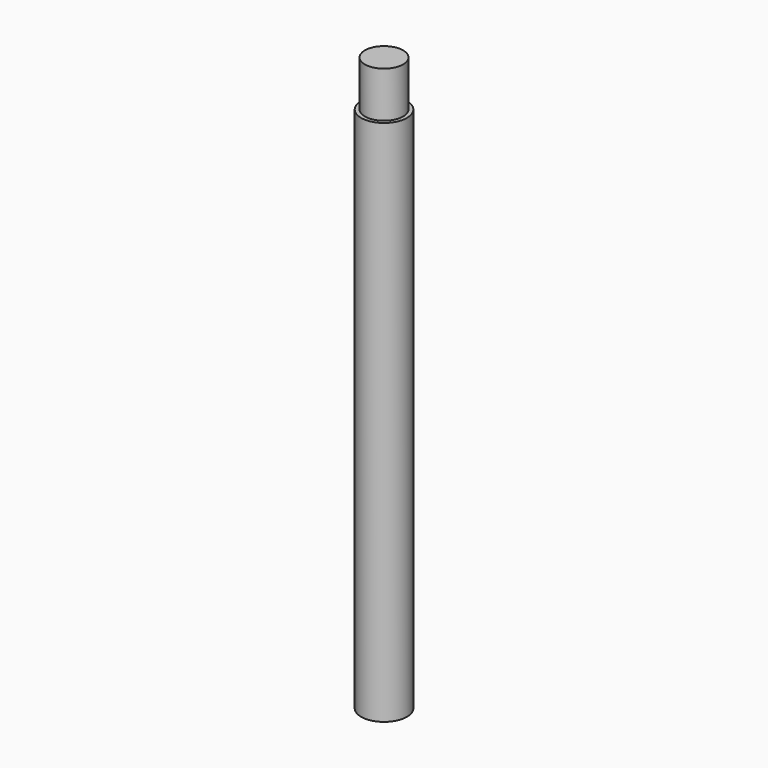
from build123d import *

# Parameters (mm, degrees)
F0_R     = 2.5
F1_DEPTH = 6
F2_R     = 3
F2_R_2   = 2.5
F3_DEPTH = 69


with BuildPart() as f1:
    # F0 (on Top) → F1 (new body)
    with BuildSketch(Plane.XY):
        with Locations((-28.215727, 25.493953)):
            Circle(F0_R)
    extrude(amount=F1_DEPTH)


with BuildPart() as f3:
    # F2 (on face) → F3 (new body)
    with BuildSketch(Plane(origin=(0, 0, 0), x_dir=(1, 0, 0), z_dir=(0, 0, -1))):
        with Locations((-28.215727, -25.493953)):
            Circle(F2_R)
        with Locations((-28.215727, -25.493953)):
            Circle(F2_R_2, mode=Mode.SUBTRACT)
    extrude(amount=F3_DEPTH)


solid = Compound([f1.part, f3.part])
